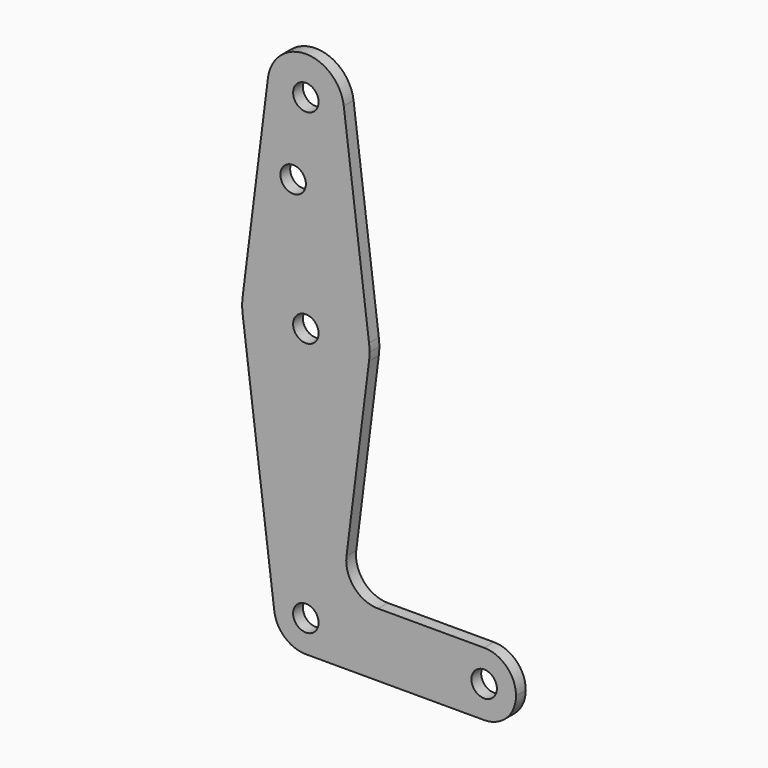
from build123d import *

# Parameters (mm, degrees)
F0_R     = 3.175
F1_DEPTH = 3.048


with BuildPart() as f1:
    # F0 (on Front) → F1 (new body)
    with BuildSketch(Plane.XZ):
        with BuildLine():
            ThreePointArc((9.450293, 115.490625), (0, 123.825), (-9.450293, 115.490625))
            ThreePointArc((-9.450293, 115.490625), (-0.596483, 104.793695), (9.525, 114.3))
            ThreePointArc((9.525, 114.3), (9.506305, 114.896483), (9.450293, 115.490625))
        make_face()
        with Locations((0, 114.3)):
            Circle(F0_R, mode=Mode.SUBTRACT)
        with BuildLine():
            Line((-9.450293, 115.490625), (-15.750488, 65.484375))
            ThreePointArc((-15.750488, 65.484375), (0, 79.375), (15.750488, 65.484375))
            Line((15.750488, 65.484375), (9.450293, 115.490625))
            ThreePointArc((9.450293, 115.490625), (9.506305, 114.896483), (9.525, 114.3))
            ThreePointArc((9.525, 114.3), (-0.596483, 104.793695), (-9.450293, 115.490625))
        make_face()
        with Locations((-3.175, 95.25)):
            Circle(F0_R, mode=Mode.SUBTRACT)
        with BuildLine():
            ThreePointArc((-15.750488, 65.484375), (-15.875, 63.5), (-15.750488, 61.515625))
            ThreePointArc((-15.750488, 61.515625), (0, 47.625), (15.750488, 61.515625))
            ThreePointArc((15.750488, 61.515625), (15.843841, 62.505861), (15.875, 63.5))
            ThreePointArc((15.875, 63.5), (15.843841, 64.494139), (15.750488, 65.484375))
            ThreePointArc((15.750488, 65.484375), (0, 79.375), (-15.750488, 65.484375))
        make_face()
        with Locations((0, 63.5)):
            Circle(F0_R, mode=Mode.SUBTRACT)
        with BuildLine():
            ThreePointArc((-7.875244, -0.992188), (-0.497069, 7.921921), (7.9375, 0))
            ThreePointArc((7.9375, 0), (5.61266, -5.61266), (0, -7.9375))
            Line((0, -7.9375), (44.45, -7.9375))
            ThreePointArc((44.45, -7.9375), (36.5125, 0), (44.45, 7.9375))
            Line((44.45, 7.9375), (18.014958, 7.9375))
            ThreePointArc((18.014958, 7.9375), (12.052308, 10.629137), (10.127114, 16.881475))
            Line((10.127114, 16.881475), (15.750488, 61.515625))
            ThreePointArc((15.750488, 61.515625), (0, 47.625), (-15.750488, 61.515625))
            Line((-15.750488, 61.515625), (-7.875244, -0.992188))
        make_face()
        with BuildLine():
            ThreePointArc((0, -7.9375), (5.61266, -5.61266), (7.9375, 0))
            ThreePointArc((7.9375, 0), (-0.497069, 7.921921), (-7.875244, -0.992188))
            ThreePointArc((-7.875244, -0.992188), (-5.250163, -5.953125), (0, -7.9375))
        make_face()
        Circle(F0_R, mode=Mode.SUBTRACT)
        with BuildLine():
            ThreePointArc((44.45, 7.9375), (36.5125, 0), (44.45, -7.9375))
            ThreePointArc((44.45, -7.9375), (50.06266, -5.61266), (52.3875, 0))
            ThreePointArc((52.3875, 0), (50.06266, 5.61266), (44.45, 7.9375))
        make_face()
        with Locations((44.45, 0)):
            Circle(F0_R, mode=Mode.SUBTRACT)
    extrude(amount=F1_DEPTH)


solid = f1.part
